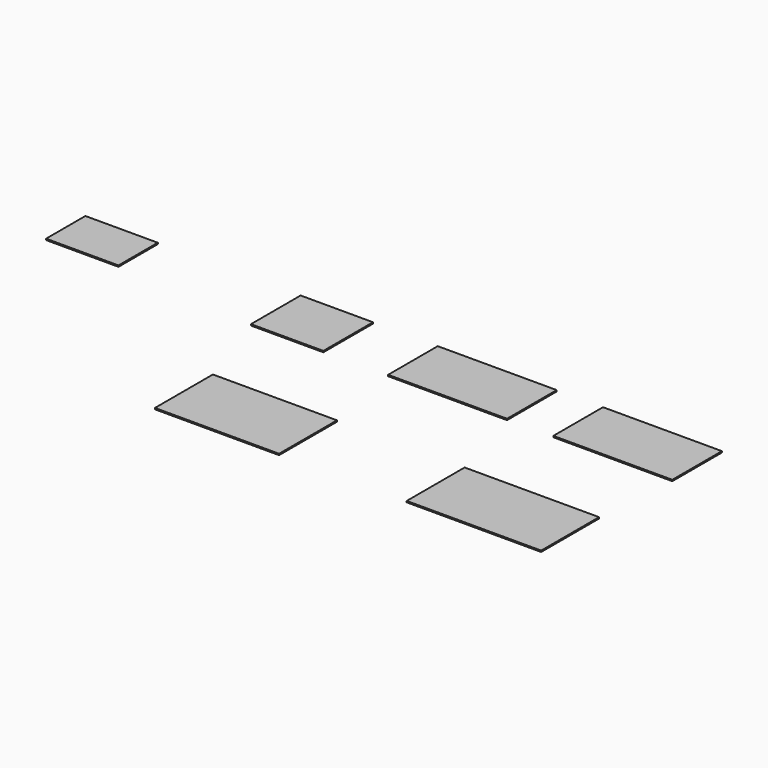
from build123d import *

# Parameters (mm, degrees)
F0_W     = 1219.2
F0_H     = 1422.4
F0_W_2   = 1422.4
F0_H_2   = 609.6
F0_W_3   = 203.2
F0_H_3   = 1219.2
F0_H_4   = 711.2
F0_H_5   = 482.6
F1_DEPTH = 25.4


with BuildPart() as f1:
    # F0 (on Top) → F1 (new body)
    with BuildSketch(Plane.XY):
        with Locations((-1884.006567, -2382.53498)):
            Rectangle(F0_W, F0_H)
        with Locations((-563.206567, -2382.53498)):
            Rectangle(F0_W_2, F0_H)
        with Locations((-1376.006567, 914.4)):
            Rectangle(F0_W_2, F0_H_2)
        Polygon((46.393433, 1219.2), (-664.806567, 1219.2), (-664.806567, 609.6), (-664.806567, 0), (46.393433, 0), align=None)
        with Locations((-1376.006567, 304.8)):
            Rectangle(F0_W_2, F0_H_2)
        with Locations((147.993433, 609.6)):
            Rectangle(F0_W_3, F0_H_3)
        with Locations((-4623.045413, 914.4)):
            Rectangle(F0_W_2, F0_H_2)
        Polygon((-3200.645413, 1219.2), (-3911.845413, 1219.2), (-3911.845413, 609.6), (-3911.845413, 0), (-3200.645413, 0), align=None)
        with Locations((-4623.045413, 304.8)):
            Rectangle(F0_W_2, F0_H_2)
        with Locations((-3099.045413, 609.6)):
            Rectangle(F0_W_3, F0_H_3)
        Polygon((-6221.27308, -1671.33498), (-7440.47308, -1671.33498), (-7440.47308, -3093.73498), (-6221.27308, -3093.73498), (-6221.27308, -2382.53498), align=None)
        with Locations((-5611.67308, -2026.93498)):
            Rectangle(F0_W, F0_H_4)
        with Locations((-5611.67308, -2738.13498)):
            Rectangle(F0_W, F0_H_4)
        with Locations((-7318.167447, 914.4)):
            Rectangle(F0_W_2, F0_H_2)
        with Locations((-7318.167447, 304.8)):
            Rectangle(F0_W_2, F0_H_2)
        with Locations((-11547.00446, 977.9)):
            Rectangle(F0_W_2, F0_H_5)
        with Locations((-11547.00446, 495.3)):
            Rectangle(F0_W_2, F0_H_5)
    extrude(amount=F1_DEPTH)


solid = f1.part
